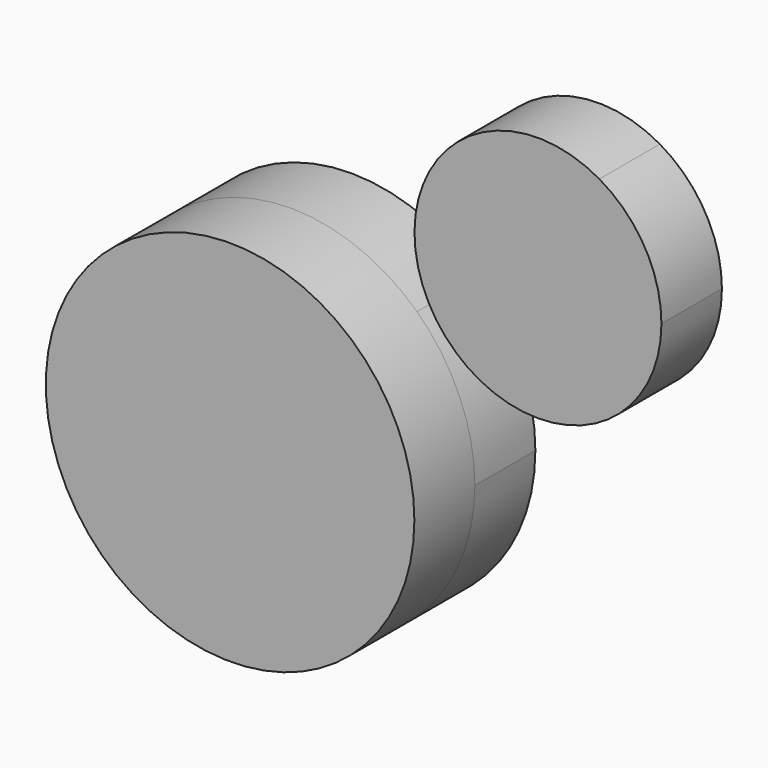
from build123d import *

# Parameters (mm, degrees)
F1_DEPTH  = 25.4
F1_FACE_R = 61.905723
F2_DEPTH  = 25.4


with BuildPart() as f1:
    # F0 (on Front) → F1 (new body)
    with BuildSketch(Plane.XZ):
        with BuildLine():
            ThreePointArc((42.437269, 45.071019), (-56.830575, -24.548001), (61.905723, 0))
            ThreePointArc((61.905723, 0), (56.830575, 24.548001), (42.437269, 45.071019))
        make_face()
        with BuildLine():
            ThreePointArc((103.719492, 104.211882), (54.295645, 98.070268), (46.400763, 48.896018))
            Line((46.400763, 48.896018), (103.719492, 104.211882))
        make_face()
        with BuildLine():
            Line((103.719492, 104.211882), (46.400763, 48.896018))
            ThreePointArc((46.400763, 48.896018), (93.053484, 27.961368), (124.574243, 68.22522))
            ThreePointArc((124.574243, 68.22522), (118.983798, 89.021617), (103.719492, 104.211882))
        make_face()
    extrude(amount=F1_DEPTH)

    # F1_face (on face) → F2 (join)
    with BuildSketch(Plane.XZ.offset(25.4)):
        Circle(F1_FACE_R)
    extrude(amount=F2_DEPTH)


solid = f1.part
